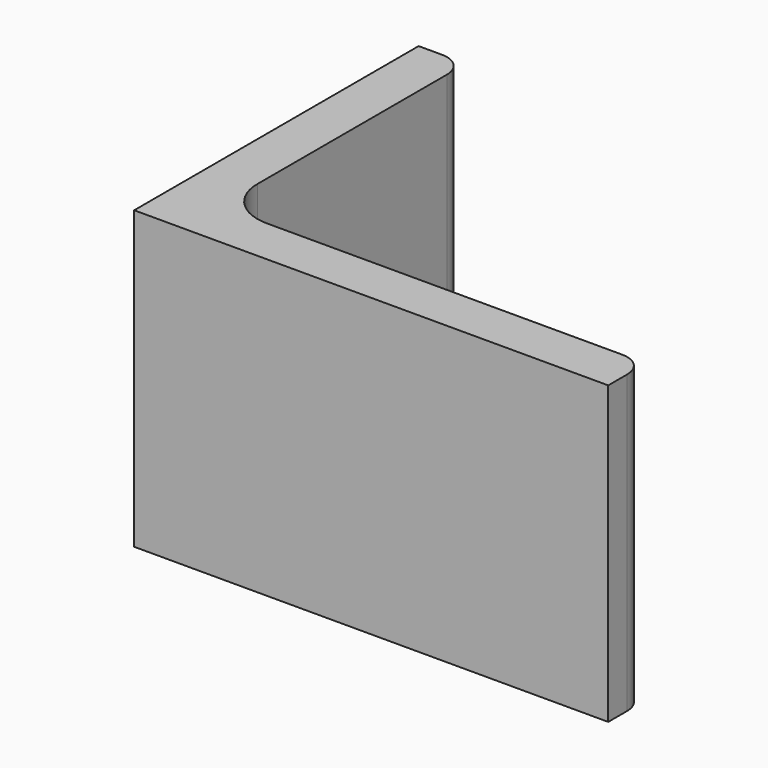
from build123d import *

# Parameters (mm, degrees)
EXTRUDE_DEPTH = 50


with BuildPart() as part:
    # Sketch → Extrude (new body)
    with BuildSketch(Plane.XY):
        with BuildLine():
            Line((0, 0), (80, 0))
            Line((80, 0), (80, 4))
            ThreePointArc((80, 4), (78.828427, 6.828427), (76, 8))
            Line((76, 8), (16, 8))
            ThreePointArc((8, 16), (10.343146, 10.343146), (16, 8))
            Line((8, 56), (8, 16))
            ThreePointArc((8, 56), (6.828427, 58.828427), (4, 60))
            Line((0, 60), (4, 60))
            Line((0, 0), (0, 60))
        make_face()
    extrude(amount=EXTRUDE_DEPTH)


solid = part.part
